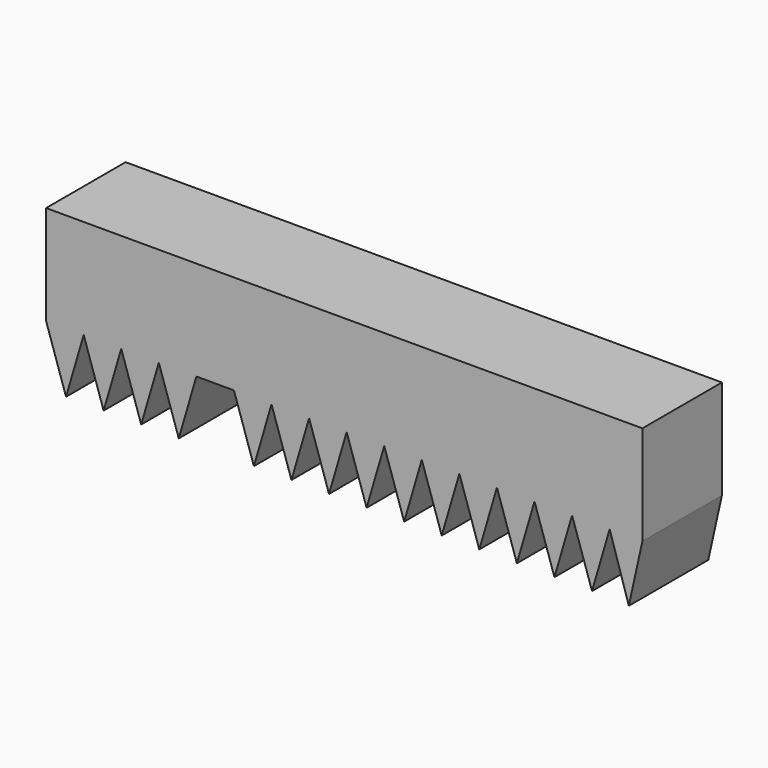
from build123d import *

# Parameters (mm, degrees)
F1_DEPTH = 25.4


with BuildPart() as f1:
    # F0 (on Front) → F1 (new body)
    with BuildSketch(Plane.XZ):
        Polygon((76.2, -12.7), (76.2, 12.7), (-76.2, 12.7), (-76.2, -12.7), (-66.593394, -12.7), (-56.992194, -12.7), (-47.390994, -12.7), (-37.789794, -12.7), (-28.188594, -12.7), (-18.587394, -12.7), (-8.986194, -12.7), (0.615006, -12.7), (10.216206, -12.7), (19.817406, -12.7), (29.418606, -12.7), (39.019806, -12.7), (48.621006, -12.7), (58.222206, -12.7), (67.823406, -12.7), align=None)
        Polygon((-66.593394, -12.7), (-76.2, -12.7), (-71.098238, -28.106328), align=None)
        Polygon((-56.992194, -12.7), (-66.593394, -12.7), (-61.497038, -28.106328), align=None)
        Polygon((-47.390994, -12.7), (-56.992194, -12.7), (-51.895838, -28.106328), align=None)
        Polygon((-37.789794, -12.7), (-47.390994, -12.7), (-42.294638, -28.106328), align=None)
        Polygon((-18.587394, -12.7), (-28.188594, -12.7), (-23.092238, -28.106328), align=None)
        Polygon((-8.986194, -12.7), (-18.587394, -12.7), (-13.491038, -28.106328), align=None)
        Polygon((0.615006, -12.7), (-8.986194, -12.7), (-3.889838, -28.106328), align=None)
        Polygon((5.711362, -28.106328), (10.216206, -12.7), (0.615006, -12.7), align=None)
        Polygon((15.312562, -28.106328), (19.817406, -12.7), (10.216206, -12.7), align=None)
        Polygon((24.913762, -28.106328), (29.418606, -12.7), (19.817406, -12.7), align=None)
        Polygon((34.514962, -28.106328), (39.019806, -12.7), (29.418606, -12.7), align=None)
        Polygon((44.116162, -28.106328), (48.621006, -12.7), (39.019806, -12.7), align=None)
        Polygon((53.717362, -28.106328), (58.222206, -12.7), (48.621006, -12.7), align=None)
        Polygon((63.318562, -28.106328), (67.823406, -12.7), (58.222206, -12.7), align=None)
        Polygon((72.715556, -28.368663), (76.2, -12.7), (67.823406, -12.7), align=None)
    extrude(amount=F1_DEPTH)


solid = f1.part
